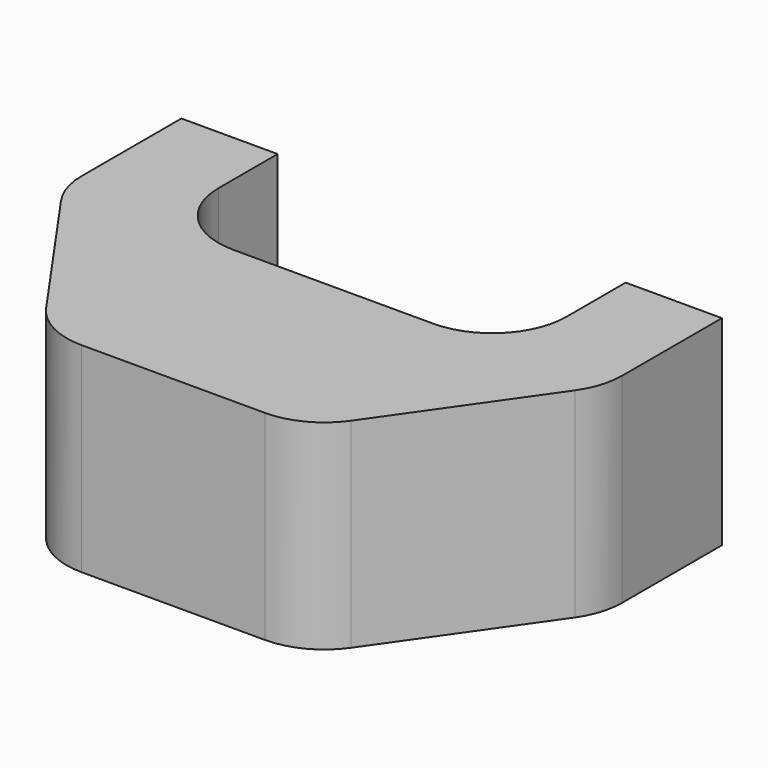
from build123d import *

# Parameters (mm, degrees)
F0_W     = 13
F0_H     = 27
F0_R     = 3
F1_DEPTH = 20
F3_DEPTH = 13.5
F4_R     = 10


with BuildPart() as f1:
    # F0 (on Front) → F1 (new body)
    with BuildSketch(Plane.XZ):
        with Locations((-30, 0)):
            Rectangle(F0_W, F0_H)
        with Locations((-30, -8)):
            Circle(F0_R, mode=Mode.SUBTRACT)
        with Locations((-30, 8)):
            Circle(F0_R, mode=Mode.SUBTRACT)
        with Locations((30, 0)):
            Rectangle(F0_W, F0_H)
        with Locations((30, -8)):
            Circle(F0_R, mode=Mode.SUBTRACT)
        with Locations((30, 8)):
            Circle(F0_R, mode=Mode.SUBTRACT)
    extrude(amount=F1_DEPTH)

    # F2 (on Top) → F3 (join, symmetric)
    with BuildSketch(Plane.XY):
        Polygon((36.5, -20), (-36.5, -20), (-17.594396, -47), (17.594396, -47), align=None)
    extrude(amount=F3_DEPTH, both=True)

    # F4
    f4_edges = [f1.edges().sort_by_distance(p)[0] for p in [
        (-23.5, -20, 0),
        (23.5, -20, 0),
        (-17.594396, -47, 0),
        (17.594396, -47, 0),
        (-36.5, -20, 0),
        (36.5, -20, 0),
    ]]
    fillet(f4_edges, radius=F4_R)


solid = f1.part
